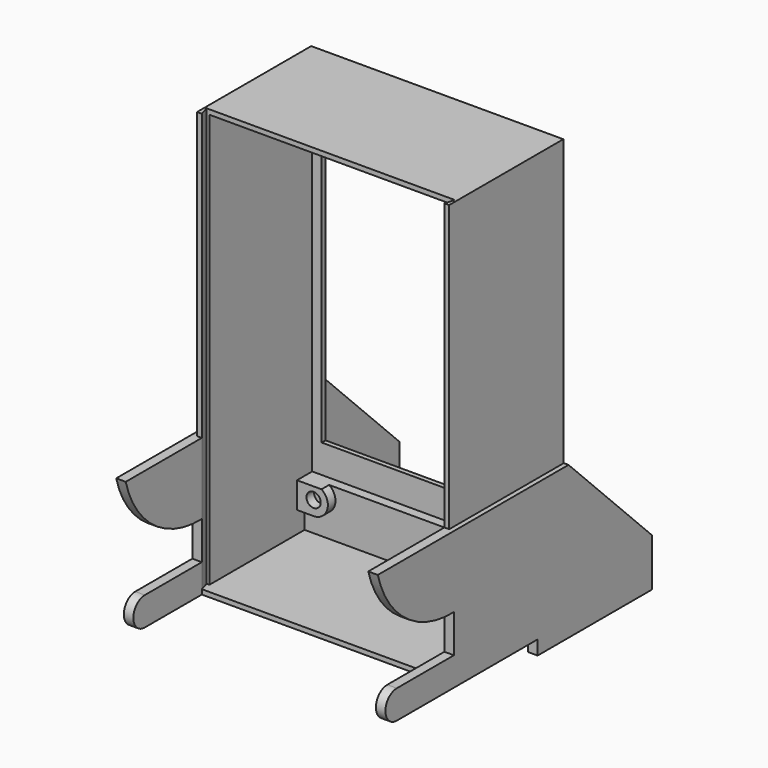
from build123d import *

# Parameters (mm, degrees)
PAD_DEPTH          = 55
SKETCH001_W        = 72
SKETCH001_H        = 51
POCKET_DEPTH       = 30
SKETCH002_W        = 30
SKETCH002_H        = 89
PAD001_DEPTH       = 51
PAD001_FACE5_W     = 30
PAD001_FACE5_H     = 60
PAD002_DEPTH       = 1
PAD002_FACE31_W    = 30
PAD002_FACE31_H    = 60
PAD003_DEPTH       = 1
SKETCH003_W        = 87
SKETCH003_H        = 51
POCKET001_DEPTH    = 27
SKETCH004_W        = 71
SKETCH004_H        = 51
POCKET002_DEPTH    = 2
SKETCH005_W        = 62
SKETCH005_H        = 47
POCKET003_DEPTH    = 1
SKETCH006_R        = 1.5
PAD004_DEPTH       = 2
POCKET004_DEPTH    = 55.001
SKETCH008_W        = 30
SKETCH008_H        = 51
POCKET005_DEPTH    = 2
POCKET005_FACE21_W = 51
POCKET005_FACE21_H = 1
POCKET006_DEPTH    = 2
POCKET007_DEPTH    = 88


with BuildPart() as part:
    # Sketch → Pad (new body)
    with BuildSketch(Plane.YZ):
        with BuildLine():
            Line((0, 0), (-30, 0))
            Line((-30, 0), (-30, 3))
            Line((-30, 3), (-67, 3))
            ThreePointArc((-67, 9), (-70, 6), (-67, 3))
            Line((-67, 9), (-52, 9))
            Line((-52, 9), (-52, 17))
            ThreePointArc((-72, 32), (-64.630858, 20.992189), (-52, 17))
            Line((-72, 32), (0, 32))
            Line((0, 32), (0, 0))
        make_face()
    extrude(amount=PAD_DEPTH)

    # Sketch001 (on Face1 of Pad) → Pocket (cut)
    with BuildSketch(Plane(origin=(0, 0, 32), x_dir=(0, -1, 0), z_dir=(0, 0, 1))):
        with Locations((36, 27.5)):
            Rectangle(SKETCH001_W, SKETCH001_H)
    extrude(amount=-POCKET_DEPTH, mode=Mode.SUBTRACT)

    # Sketch002 (on Face14 of Pocket) → Pad001 (join)
    with BuildSketch(Plane(origin=(53, 0, 0), x_dir=(0, 1, 0), z_dir=(-1, 0, 0))):
        with Locations((-37, -47.5)):
            Rectangle(SKETCH002_W, SKETCH002_H)
    extrude(amount=PAD001_DEPTH)

    # Pad001 Face5 → Pad002 (add)
    with BuildSketch(Plane(origin=(2, -37, 62), x_dir=(0, 1, 0), z_dir=(-1, 0, 0))):
        Rectangle(PAD001_FACE5_W, PAD001_FACE5_H)
    extrude(amount=PAD002_DEPTH)

    # Pad002 Face31 → Pad003 (add)
    with BuildSketch(Plane(origin=(53, -37, 62), x_dir=(0, -1, 0), z_dir=(1, 0, 0))):
        Rectangle(PAD002_FACE31_W, PAD002_FACE31_H)
    extrude(amount=PAD003_DEPTH)

    # Sketch003 (on Face23 of Pad003) → Pocket001 (cut)
    with BuildSketch(Plane(origin=(0, -52, 0), x_dir=(0, 0, -1), z_dir=(0, -1, 0))):
        with Locations((-47.5, 27.5)):
            Rectangle(SKETCH003_W, SKETCH003_H)
    extrude(amount=-POCKET001_DEPTH, mode=Mode.SUBTRACT)

    # Sketch004 (on Face39 of Pocket001) → Pocket002 (cut)
    with BuildSketch(Plane(origin=(0, -25, 0), x_dir=(0, 0, -1), z_dir=(0, -1, 0))):
        with Locations((-49.5, 27.5)):
            Rectangle(SKETCH004_W, SKETCH004_H)
    extrude(amount=-POCKET002_DEPTH, mode=Mode.SUBTRACT)

    # Sketch005 (on Face47 of Pocket002) → Pocket003 (cut)
    with BuildSketch(Plane(origin=(0, -23, 0), x_dir=(0, 0, -1), z_dir=(0, -1, 0))):
        with Locations((-51, 27.5)):
            Rectangle(SKETCH005_W, SKETCH005_H)
    extrude(amount=-POCKET003_DEPTH, mode=Mode.SUBTRACT)

    # Sketch006 (on Face43 of Pocket003) → Pad004 (join)
    with BuildSketch(Plane(origin=(0, -25, 0), x_dir=(0, 0, -1), z_dir=(0, -1, 0))):
        with BuildLine():
            Line((-8.5, 2), (-14, 2))
            Line((-14, 2), (-14, 7.158312))
            ThreePointArc((-8.5, 5.5), (-10.633975, 8.372281), (-14, 7.158312))
            Line((-8.5, 2), (-8.5, 5.5))
        make_face()
        with Locations((-11.5, 5.5)):
            Circle(SKETCH006_R, mode=Mode.SUBTRACT)
        with BuildLine():
            Line((-14, 47.841688), (-14, 53))
            Line((-14, 53), (-8.5, 53))
            Line((-8.5, 53), (-8.5, 49.5))
            ThreePointArc((-14, 47.841688), (-10.633975, 46.627719), (-8.5, 49.5))
        make_face()
        with Locations((-11.5, 49.5)):
            Circle(SKETCH006_R, mode=Mode.SUBTRACT)
        with BuildLine():
            Line((-85, 7.158312), (-85, 2))
            Line((-85, 2), (-91, 2))
            Line((-91, 2), (-91, 8.5))
            Line((-91, 8.5), (-87.5, 8.5))
            ThreePointArc((-85, 7.158312), (-86.081363, 8.143382), (-87.5, 8.5))
        make_face()
        with Locations((-87.5, 5.5)):
            Circle(SKETCH006_R, mode=Mode.SUBTRACT)
        with BuildLine():
            Line((-85, 47.841688), (-85, 53))
            Line((-85, 53), (-91, 53))
            Line((-91, 53), (-91, 46.5))
            Line((-91, 46.5), (-87.5, 46.5))
            ThreePointArc((-87.5, 46.5), (-86.081363, 46.856618), (-85, 47.841688))
        make_face()
        with Locations((-87.5, 49.5)):
            Circle(SKETCH006_R, mode=Mode.SUBTRACT)
    extrude(amount=PAD004_DEPTH)

    # Sketch007 (on Face16 of Pad004) → Pocket004 (cut, through all)
    with BuildSketch(Plane.YZ.offset(55)):
        Polygon((0.114911, 10), (0.114911, 32), (-21.885089, 32), align=None)
    extrude(amount=-POCKET004_DEPTH, mode=Mode.SUBTRACT)

    # Sketch008 (on Face15 of Pocket004) → Pocket005 (cut)
    with BuildSketch(Plane.YX):
        with Locations((-15, 27.5)):
            Rectangle(SKETCH008_W, SKETCH008_H)
    extrude(amount=-POCKET005_DEPTH, mode=Mode.SUBTRACT)

    # Pocket005 Face21 → Pocket006 (cut)
    with BuildSketch(Plane(origin=(27.5, -52, 91.5), x_dir=(-1, 0, 0), z_dir=(0, -1, 0))):
        Rectangle(POCKET005_FACE21_W, POCKET005_FACE21_H)
    extrude(amount=-POCKET006_DEPTH, mode=Mode.SUBTRACT)

    # Sketch009 (on Face20 of Pocket006) → Pocket007 (cut)
    with BuildSketch(Plane(origin=(0, 0, 92), x_dir=(0, -1, 0), z_dir=(0, 0, 1))):
        Polygon((52, 53), (50, 53), (50, 53.6), align=None)
        Polygon((52, 2), (50, 2), (50, 1.4), align=None)
    extrude(amount=-POCKET007_DEPTH, mode=Mode.SUBTRACT)


solid = part.part
